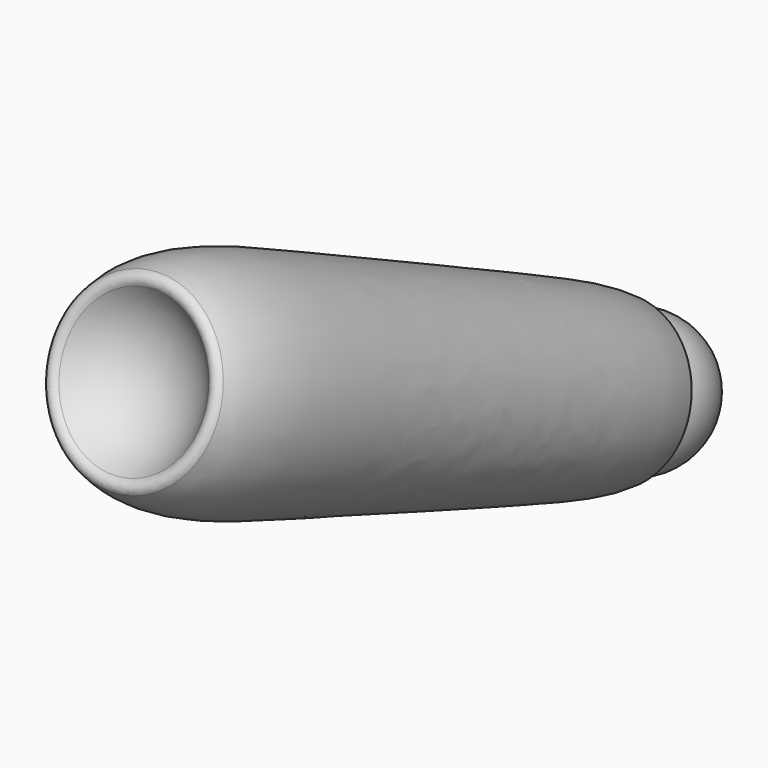
from build123d import *

# Parameters (mm, degrees)
FILLET066_R             = 3
FILLET067_R             = 3
BODY041_ROLL_ANGLE      = 87.060081
BODY041_PITCH_ANGLE     = 21.724466
BODY041_PLACEMENT_ANGLE = 86.191824


with BuildPart() as part:
    # Sketch138 → Revolution072 (revolve)
    with BuildSketch(Plane.XY):
        with BuildLine():
            Line((5.147949, 0), (267.265, 0))
            add(Edge.make_bspline(
                [(267.265, 0), (263.840897, 29.07099), (216.842712, 33.126465), (91.435905, 38.640092), (3.238657, 43.599544), (5.147949, 0)],
                knots=[0, 0, 0, 0, 0.333333, 0.666667, 1, 1, 1, 1], degree=3))
        make_face()
    revolve(axis=Axis((0, 0, 0), (1, 0, 0)))

    # Sketch139 → Groove065 (revolve, cut)
    with BuildSketch(Plane.XY):
        with BuildLine():
            Line((-35, 0), (35, 0))
            ThreePointArc((35, 0), (0, 35), (-35, 0))
        make_face()
    revolve(axis=Axis((0, 0, 0), (1, 0, 0)), mode=Mode.SUBTRACT)

    # Fillet066
    fillet066_edges = [part.edges().sort_by_distance(p)[0] for p in [
        (17.386166, -30.376327, 0),
    ]]
    fillet(fillet066_edges, radius=FILLET066_R)

    # Sketch140 → Groove066 (revolve, cut)
    with BuildSketch(Plane.XY):
        with BuildLine():
            Line((228, 0), (278, 0))
            ThreePointArc((278, 0), (253, 25), (228, 0))
        make_face()
    revolve(axis=Axis((0, 0, 0), (1, 0, 0)), mode=Mode.SUBTRACT)

    # Fillet067
    fillet067_edges = [part.edges().sort_by_distance(p)[0] for p in [
        (251.985595, -24.979411, 0),
    ]]
    fillet(fillet067_edges, radius=FILLET067_R)

    # Sketch140 → Revolution073 (revolve)
    with BuildSketch(Plane.XY):
        with BuildLine():
            Line((228, 0), (278, 0))
            ThreePointArc((278, 0), (253, 25), (228, 0))
        make_face()
    revolve(axis=Axis((0, 0, 0), (1, 0, 0)))


with BuildPart() as part_1:
    # Body041 roll: moved
    add(part.part.rotate(Axis((0, 0, 0), (1, 0, 0)), BODY041_ROLL_ANGLE))


with BuildPart() as part_2:
    # Body041 pitch: moved
    add(part_1.part.rotate(Axis((0, 0, 0), (0, 1, 0)), BODY041_PITCH_ANGLE))


with BuildPart() as part_3:
    # Body041 placement: moved
    add(part_2.part.moved(Location((-197.799405, 1746.29514, 138.555963))).rotate(Axis((-197.799405, 1746.29514, 138.555963), (0, 0, 1)), BODY041_PLACEMENT_ANGLE))


solid = part_3.part
